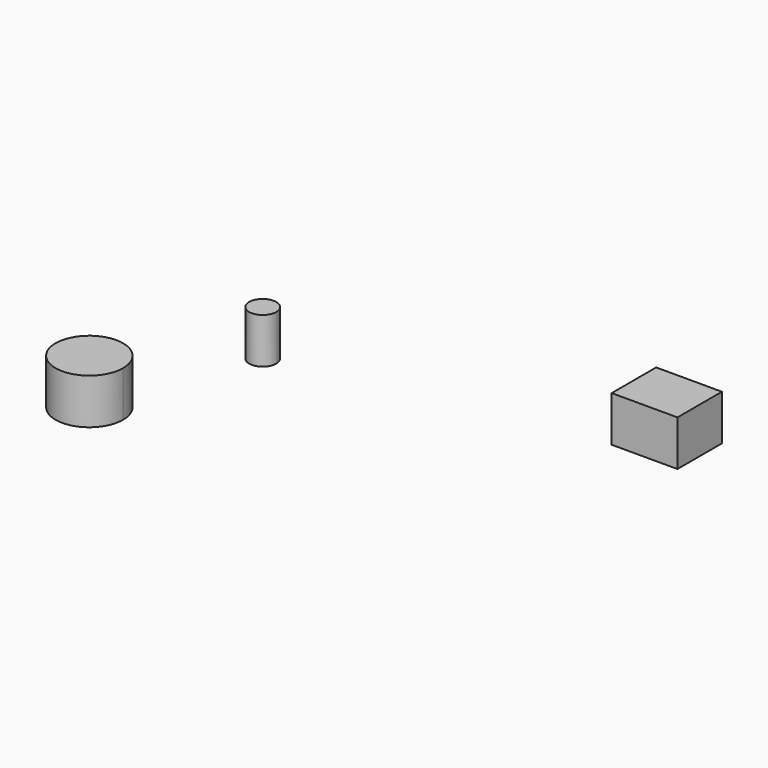
from build123d import *

# Parameters (mm, degrees)
F0_R     = 7.466752
F0_W     = 36.14388
F0_H     = 30.542001
F1_DEPTH = 25


with BuildPart() as f1:
    # F0 (on Top) → F1 (new body)
    with BuildSketch(Plane.XY):
        with BuildLine():
            ThreePointArc((-201.360568, -125.446649), (-208.110778, -158.075805), (-178.189436, -143.414959))
            ThreePointArc((-178.189436, -143.414959), (-185.37295, -128.754114), (-201.360568, -125.446649))
        make_face()
        with Locations((-166.918367, -61.599746)):
            Circle(F0_R)
        with Locations((18.07194, -15.271)):
            Rectangle(F0_W, F0_H)
    extrude(amount=F1_DEPTH)


solid = f1.part
